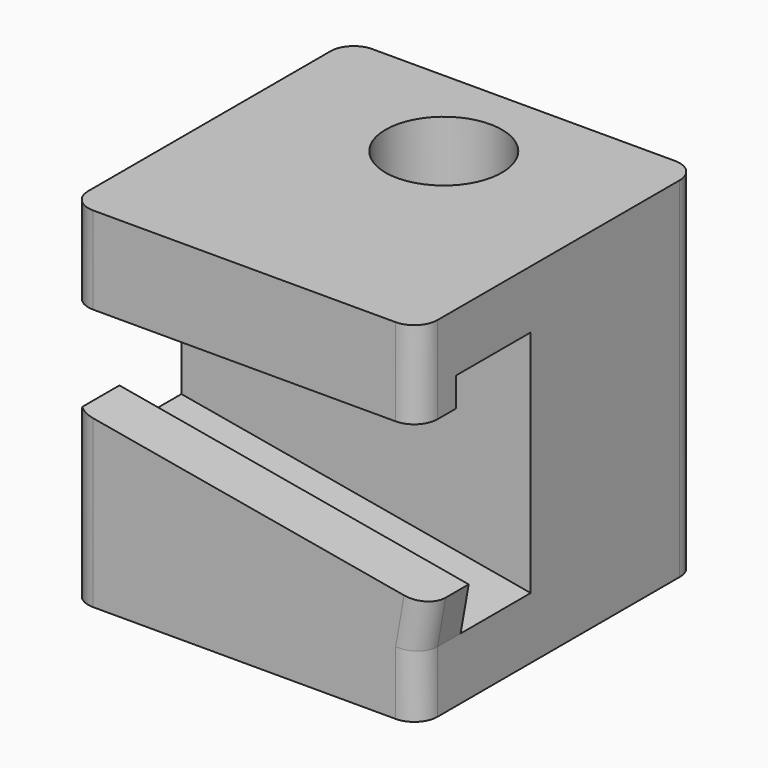
from build123d import *

# Parameters (mm, degrees)
F0_W     = 76.2
F0_H     = 76.2
F1_DEPTH = 45.72
F2_W     = 76.2
F2_H     = 12.7
F3_DEPTH = 30.48
F4_W     = 76.2
F4_H     = 10.16
F5_DEPTH = 6.35
F7_DEPTH = 30.48
F8_W     = 77.3755078257
F8_H     = 11.3661354303
F9_DEPTH = 10.16
F10_R    = 5.08
F12_D    = 25.4


with BuildPart() as f1:
    # F0 (on Front) → F1 (new body)
    with BuildSketch(Plane.XZ):
        with Locations((8.099174127, 0.0226207582)):
            Rectangle(F0_W, F0_H)
    extrude(amount=F1_DEPTH)

    # F2 (on face) → F3 (join)
    with BuildSketch(Plane.XZ.offset(45.72)):
        with Locations((8.099174127, 31.7726207582)):
            Rectangle(F2_W, F2_H)
    extrude(amount=F3_DEPTH)

    # F4 (on face) → F5 (join)
    with BuildSketch(Plane(origin=(0, 0, 25.4226207582), x_dir=(1, 0, 0), z_dir=(0, 0, -1))):
        with Locations((8.099174127, 71.12)):
            Rectangle(F4_W, F4_H)
    extrude(amount=F5_DEPTH)

    # F6 (on face) → F7 (join)
    with BuildSketch(Plane.XZ.offset(45.72)):
        Polygon((-30.000825873, -11.1981863156), (-30.000825873, -38.0773792418), (46.199174127, -38.0773792418), (46.199174127, -24.6343022456), align=None)
    extrude(amount=F7_DEPTH)

    # F8 (on face) → F9 (join)
    with BuildSketch(Plane(origin=(-2.8196382357, 0, -15.9909630638), x_dir=(0.984807753, 0, -0.1736481777), z_dir=(0.1736481777, 0, 0.984807753))):
        with Locations((11.0872526432, -70.5169322848)):
            Rectangle(F8_W, F8_H)
    extrude(amount=F9_DEPTH)

    # F10
    f10_edges = [f1.edges().sort_by_distance(p)[0] for p in [
        (-30.000826, -76.2, 28.597621),
        (-30.000826, -76.2, -24.637783),
        (46.199174, -76.2, -31.355841),
        (47.081307, -76.2, -19.631479),
        (46.199174, -76.2, 28.597621),
        (46.199174, 0, 0.022621),
        (-30.000826, 0, 0.022621),
    ]]
    fillet(f10_edges, radius=F10_R)

    # F12 (through all)
    with Locations(Plane.XY.offset(38.1226207582)):
        with Locations((8.099174127, -21.8078975493)):
            Hole(F12_D / 2)


solid = f1.part
